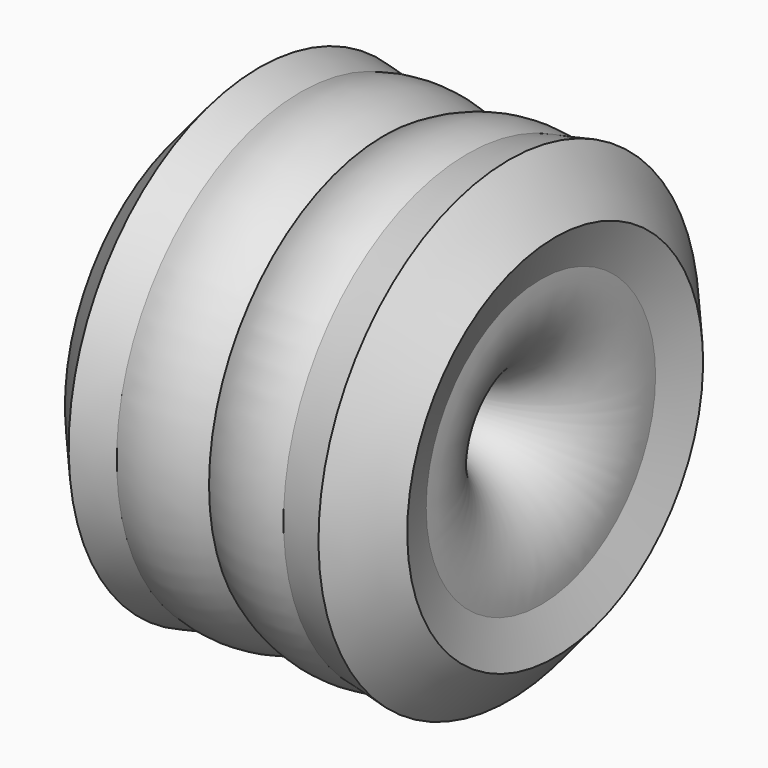
from build123d import *


with BuildPart() as f1:
    # F0 (on Front) → F1 (revolve)
    with BuildSketch(Plane.XZ):
        with BuildLine():
            ThreePointArc((18.126898, 49.937625), (4.163339, 49.510089), (-6.842852, 40.906162))
            ThreePointArc((-6.842852, 40.906162), (-16.148937, 27.032611), (-5.530801, 14.135564))
            ThreePointArc((-5.530801, 14.135564), (20.652093, 7.776373), (34.076666, 31.137968))
            Line((34.076666, 31.137968), (37.173132, 40.158779))
            Line((37.173132, 40.158779), (27.124938, 51.6956))
            Line((27.124938, 51.6956), (18.126898, 49.937625))
        make_face()
    revolve(axis=Axis((-4.073094, 0, 0), (1, 0, 0)))

    # F2: F1 across plane


with BuildPart() as f1_1:
    add(f1.part)
    add(f1.part.mirror(Plane.YZ))


solid = f1_1.part
